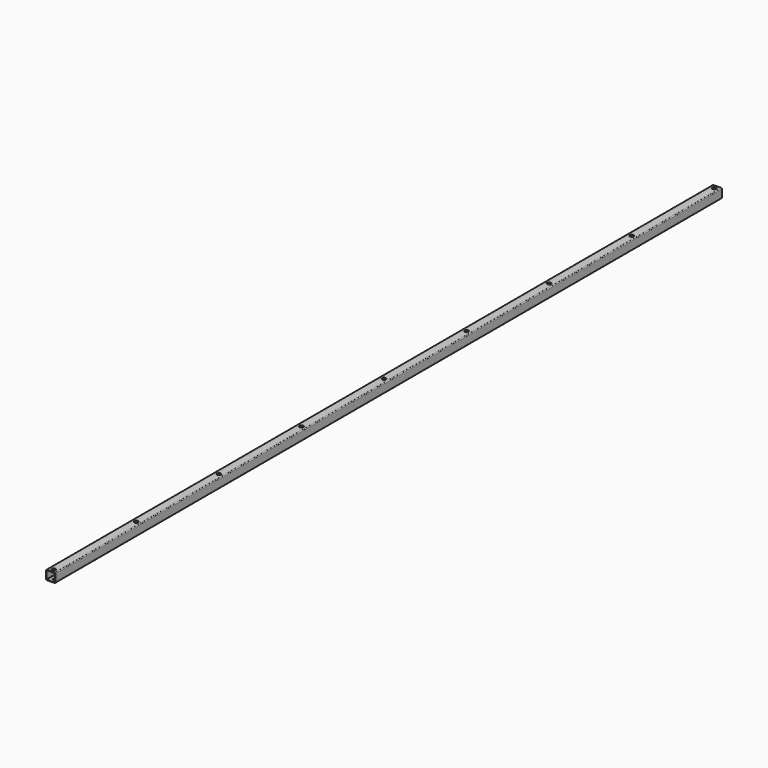
from build123d import *

# Parameters (mm, degrees)
F1_DEPTH = 5450
F2_R     = 12.5
F3_DEPTH = 4
F4_R     = 6
F5_DEPTH = 4


with BuildPart() as f1:
    # F0 (on Front) → F1 (new body)
    with BuildSketch(Plane.XZ):
        with BuildLine():
            Line((25, 30), (-25, 30))
            ThreePointArc((-25, 30), (-28.535534, 28.535534), (-30, 25))
            Line((-30, 25), (-30, -25))
            ThreePointArc((-30, -25), (-28.535534, -28.535534), (-25, -30))
            Line((-25, -30), (25, -30))
            ThreePointArc((25, -30), (28.535534, -28.535534), (30, -25))
            Line((30, -25), (30, 25))
            ThreePointArc((30, 25), (28.535534, 28.535534), (25, 30))
        make_face()
        with BuildLine():
            Line((-27, -25), (-27, 25))
            ThreePointArc((-27, 25), (-26.414214, 26.414214), (-25, 27))
            Line((-25, 27), (25, 27))
            ThreePointArc((25, 27), (26.414214, 26.414214), (27, 25))
            Line((27, 25), (27, -25))
            ThreePointArc((27, -25), (26.414214, -26.414214), (25, -27))
            Line((25, -27), (-25, -27))
            ThreePointArc((-25, -27), (-26.414214, -26.414214), (-27, -25))
        make_face(mode=Mode.SUBTRACT)
    extrude(amount=F1_DEPTH)

    # F2 (on face) → F3 (cut)
    with BuildSketch(Plane.XY.offset(30)):
        with Locations((0, -5425)):
            Circle(F2_R)
        with Locations((0, -4750)):
            Circle(F2_R)
        with Locations((0, -4075)):
            Circle(F2_R)
        with Locations((0, -3400)):
            Circle(F2_R)
        with Locations((0, -2725)):
            Circle(F2_R)
        with Locations((0, -2050)):
            Circle(F2_R)
        with Locations((0, -1375)):
            Circle(F2_R)
        with Locations((0, -700)):
            Circle(F2_R)
        with Locations((0, -25)):
            Circle(F2_R)
    extrude(amount=-F3_DEPTH, mode=Mode.SUBTRACT)

    # F4 (on face) → F5 (cut)
    with BuildSketch(Plane(origin=(0, 0, -30), x_dir=(1, 0, 0), z_dir=(0, 0, -1))):
        with Locations((0, 25)):
            Circle(F4_R)
        with Locations((0, 700)):
            Circle(F4_R)
        with Locations((0, 1375)):
            Circle(F4_R)
        with Locations((0, 2050)):
            Circle(F4_R)
        with Locations((0, 2725)):
            Circle(F4_R)
        with Locations((0, 3400)):
            Circle(F4_R)
        with Locations((0, 4075)):
            Circle(F4_R)
        with Locations((0, 4750)):
            Circle(F4_R)
        with Locations((0, 5425)):
            Circle(F4_R)
    extrude(amount=-F5_DEPTH, mode=Mode.SUBTRACT)


solid = f1.part
